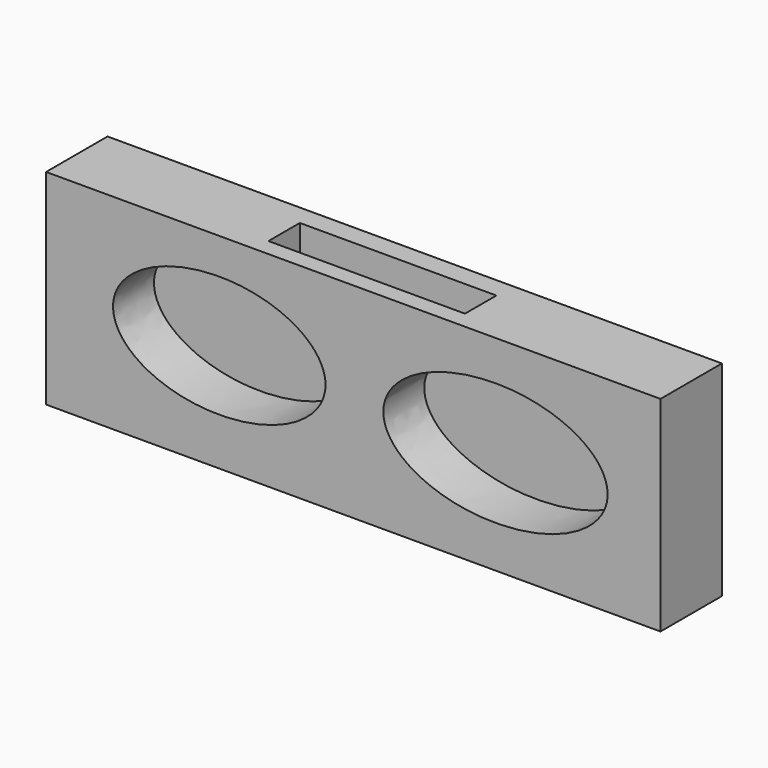
from build123d import *

# Parameters (mm, degrees)
F0_W     = 304.8
F0_H     = 101.6
F1_DEPTH = 38.1
F3_DEPTH = 25.4
F5_DEPTH = 25.4
F6_W     = 97.5024849176
F6_H     = 19.4618524984
F7_DEPTH = 25.4


with BuildPart() as f1:
    # F0 (on Front) → F1 (new body)
    with BuildSketch(Plane.XZ):
        with Locations((-82.6048385143, -0.5327531517)):
            Rectangle(F0_W, F0_H)
    extrude(amount=F1_DEPTH)

    # F2 (on face) → F3 (cut)
    with BuildSketch(Plane.XZ.offset(38.1)):
        with BuildLine():
            add(Edge.make_bspline(
                [(-96.3848307729, 2.3424020037), (-96.3848307729, 54.6092069355), (-175.4408963025, 28.4758044696), (-254.496961832, 2.3424020037), (-175.4408963025, -23.7910004622), (-96.3848307729, -49.9244029281), (-96.3848307729, 2.3424020037)],
                knots=[0, 0, 0, 2.0943951024, 2.0943951024, 4.1887902048, 4.1887902048, 6.2831853072, 6.2831853072, 6.2831853072], degree=2, weights=[1, 0.5, 1, 0.5, 1, 0.5, 1]))
        make_face()
    extrude(amount=-F3_DEPTH, mode=Mode.SUBTRACT)

    # F4 (on face) → F5 (cut)
    with BuildSketch(Plane.XZ.offset(38.1)):
        with BuildLine():
            add(Edge.make_bspline(
                [(-67.6904097199, 0), (-67.6904097199, -52.8405145367), (15.7576682977, -26.4202572684), (99.2057463154, 0), (15.7576682977, 26.4202572684), (-67.6904097199, 52.8405145367), (-67.6904097199, 0)],
                knots=[0, 0, 0, 2.0943951024, 2.0943951024, 4.1887902048, 4.1887902048, 6.2831853072, 6.2831853072, 6.2831853072], degree=2, weights=[1, 0.5, 1, 0.5, 1, 0.5, 1]))
        make_face()
    extrude(amount=-F5_DEPTH, mode=Mode.SUBTRACT)

    # F6 (on face) → F7 (cut)
    with BuildSketch(Plane.XY.offset(50.2672468483)):
        with Locations((-82.7696248889, -19.8322138749)):
            Rectangle(F6_W, F6_H)
    extrude(amount=-F7_DEPTH, mode=Mode.SUBTRACT)


solid = f1.part
